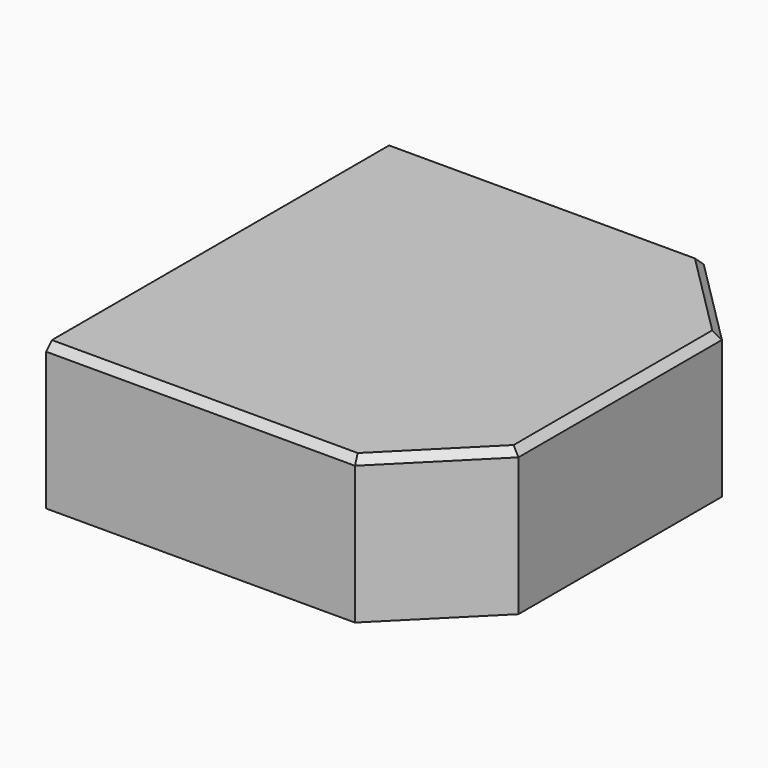
from build123d import *

# Parameters (mm, degrees)
BOX032_W                                   = 22
BOX032_H                                   = 24
BOX032_DEPTH                               = 8
CHAMFER004013007011015006009007001004_SIZE = 5
CHAMFER004013007011015006009007001005_SIZE = 0.4


with BuildPart() as part:
    # Box032 → Box032 (new body)
    with BuildSketch(Plane(origin=(11, -12, 16), x_dir=(1, 0, 0), z_dir=(0, 0, 1))):
        with Locations((11, 12)):
            Rectangle(BOX032_W, BOX032_H)
    extrude(amount=BOX032_DEPTH)

    # Chamfer004013007011015006009007001004
    chamfer004013007011015006009007001004_edges = [part.edges().sort_by_distance(p)[0] for p in [
        (33, -12, 20),
        (33, 12, 20),
    ]]
    chamfer(chamfer004013007011015006009007001004_edges, length=CHAMFER004013007011015006009007001004_SIZE)

    # Chamfer004013007011015006009007001005
    chamfer004013007011015006009007001005_edges = [part.edges().sort_by_distance(p)[0] for p in [
        (33, 0, 24),
        (19.5, 12, 24),
        (19.5, -12, 24),
        (30.5, -9.5, 24),
        (30.5, 9.5, 24),
    ]]
    chamfer(chamfer004013007011015006009007001005_edges, length=CHAMFER004013007011015006009007001005_SIZE)


solid = part.part
